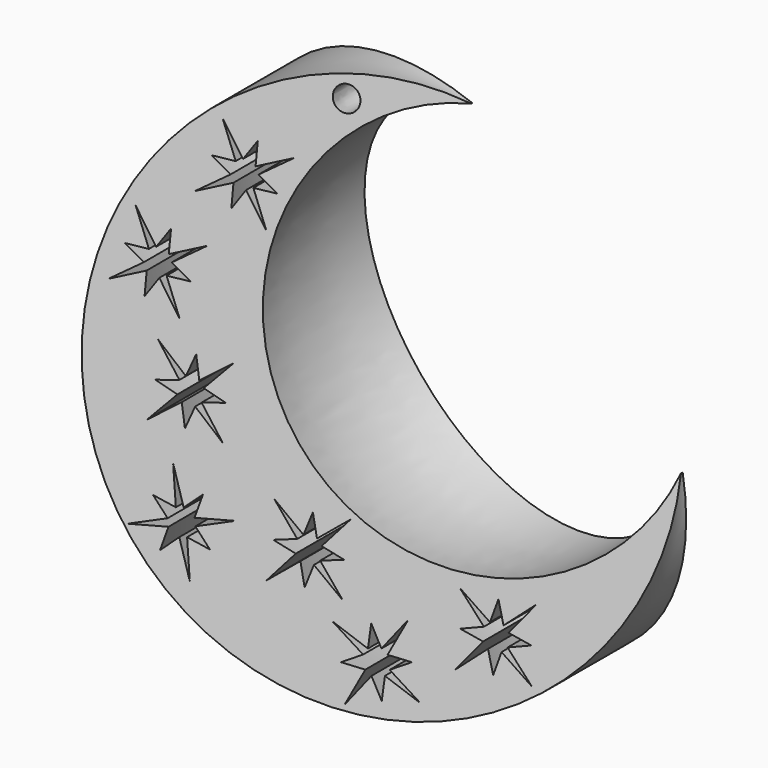
from build123d import *

# Parameters (mm, degrees)
F2_ANGLE_BACK = 15
F2_ANGLE      = 30
F4_R          = 1.0994946442


with BuildPart() as f2:
    # F0 (on Front) → F2 (revolve)
    with BuildSketch(Plane.XZ, mode=Mode.PRIVATE) as f2_sk:
        with BuildLine():
            ThreePointArc((43.3210209012, 0), (13.3990845649, -4.9728239935), (24.2500251646, 23.3522239444))
            ThreePointArc((24.2500251646, 23.3522239444), (1.0290130136, -15.0750558999), (43.3210209012, 0))
        make_face()
    revolve(f2_sk.sketch.rotate(Axis((34.1354729608, 0, 11.7301894352), (0.6365652198, 0, -0.7712228737)), -F2_ANGLE_BACK), axis=Axis((34.1354729608, 0, 11.7301894352), (0.6365652198, 0, -0.7712228737)), revolution_arc=F2_ANGLE)

    # F4 (on face) → F5 (revolve, cut)
    with BuildSketch(Plane(origin=(1.7458231355, -8.4482720423, 1.4409975712), x_dir=(0.9798760016, 0.1967654255, -0.0335617152), z_dir=(0.1996071677, -0.9659258263, 0.1647552023))):
        with Locations((13.2604176179, 20.8919551224)):
            Circle(F4_R)
    revolve(axis=Axis((34.1354729608, 0, 11.7301894352), (0.6365652198, 0, -0.7712228737)), mode=Mode.SUBTRACT)

    # F3 (on face) → F6 (revolve, cut)
    with BuildSketch(Plane(origin=(1.7458231355, -8.4482720423, 1.4409975712), x_dir=(0.9798760016, 0.1967654255, -0.0335617152), z_dir=(0.1996071677, -0.9659258263, 0.1647552023))):
        Polygon((5.7502095588, 14.3674191527), (3.8059311919, 16.9931518354), (5.2071693353, 14.0655676239), (3.2760275838, 14.0190685504), (4.9329120666, 12.9904514179), (2.3054806516, 11.0447929991), (5.2262218669, 12.4335630616), (5.2813695123, 10.4990096168), (6.266112905, 12.1465937053), (8.2103912719, 9.5208610227), (6.8096268612, 12.4549737536), (8.7407686127, 12.5014728272), (7.0867971517, 13.5252617118), (9.7125298344, 15.4695400787), (6.791788619, 14.0807700162), (6.7452895455, 16.0119117677), align=None)
        Polygon((-0.211274717, 6.1660166054), (-2.1555530839, 8.791749288), (-0.7543149404, 5.8641650766), (-2.6854566919, 5.8176660031), (-1.0285722092, 4.7890488705), (-3.6560036242, 2.8433904517), (-0.7352624089, 4.2321605142), (-0.6801147635, 2.2976070694), (0.3046286292, 3.945191158), (2.2489069961, 1.3194584753), (0.8481425854, 4.2535712063), (2.7792843369, 4.3000702798), (1.125312876, 5.3238591645), (3.7510455586, 7.2681375314), (0.8303043433, 5.8793674689), (0.7838052697, 7.8105092204), align=None)
        Polygon((3.2154705259, -2.7558043483), (0.7457476598, -0.6168421109), (2.7512555399, -3.1687347012), (0.8766526808, -3.6349264528), (2.7178646006, -4.2777779606), (0.5775451758, -6.7492178816), (3.1254760982, -4.7573696071), (3.6008520249, -6.6334175868), (4.2029107277, -4.8108429801), (6.6726335938, -6.9498052176), (4.6661654497, -4.3914377617), (6.5407683088, -3.9252460102), (4.7034515202, -3.2864719557), (6.8424137576, -0.8167490896), (4.2944828353, -2.8085973641), (3.8282910837, -0.9339945051), align=None)
        Polygon((4.1873115443, -12.4672088986), (2.9888724819, -9.4277296172), (3.5846500434, -12.6182259339), (1.7072755056, -12.1633243258), (3.0414773146, -13.5857254392), (0, -14.7850578651), (3.1806595132, -14.1995524473), (2.7332287729, -16.0824608429), (4.1108439887, -14.7458871653), (5.3092830511, -17.7853664468), (4.7156527856, -14.5886866755), (6.5930273234, -15.0435882836), (5.2603896348, -13.626604845), (8.2998689162, -12.4281657826), (5.119209403, -13.0136712004), (5.5741110111, -11.1362966626), align=None)
        Polygon((19.701040998, -19.1753302412), (16.704380199, -17.873518218), (19.3816801337, -19.7082614451), (17.7325118553, -20.7141016997), (19.6817244748, -20.7764680259), (18.379131332, -23.7751733512), (20.2141823912, -21.1120925894), (21.2292183754, -22.7598911949), (21.2582391254, -20.8406698229), (24.2548999245, -22.1424818462), (21.5747459946, -20.301847889), (23.223914273, -19.2960076343), (21.2796385283, -19.2363661826), (22.5814505516, -16.2397053835), (20.7463994925, -18.9027861453), (19.7405592378, -17.2536178669), align=None)
        Polygon((28.9318467652, -14.7887570298), (26.2904509594, -12.8658117146), (28.5041292728, -15.2393841222), (26.6755476144, -15.8620877008), (28.5644357257, -16.3472898211), (26.6402829438, -18.9905110747), (29.0110603749, -16.7907779304), (29.6430373123, -18.6200246181), (30.0891646707, -16.7531493521), (32.7305604765, -18.6760946674), (30.5153789905, -16.2961515093), (32.3439606488, -15.6734479306), (30.4592978235, -15.1919800615), (32.3822431388, -12.5505842556), (30.0114657077, -14.7503173999), (29.3887621291, -12.9217357415), align=None)
        Polygon((13.7137731526, -12.0836934034), (11.1561548389, -10.0506466626), (13.2673615005, -12.5158087429), (11.4140566543, -13.0605396629), (13.2807098714, -13.625274257), (11.2463794649, -16.1846652627), (13.7081586952, -14.0872729402), (14.2621265054, -15.941634814), (14.7868894402, -14.0953204473), (17.3445077539, -16.1283671881), (15.2320689778, -13.6567764312), (17.085373824, -13.1120455111), (15.2227840124, -12.5512207009), (17.2558307532, -9.9936023872), (14.7940515228, -12.0909947097), (14.2493206027, -10.2376898635), align=None)
    revolve(axis=Axis((34.1354729608, 0, 11.7301894352), (0.6365652198, 0, -0.7712228737)), mode=Mode.SUBTRACT)


solid = f2.part
